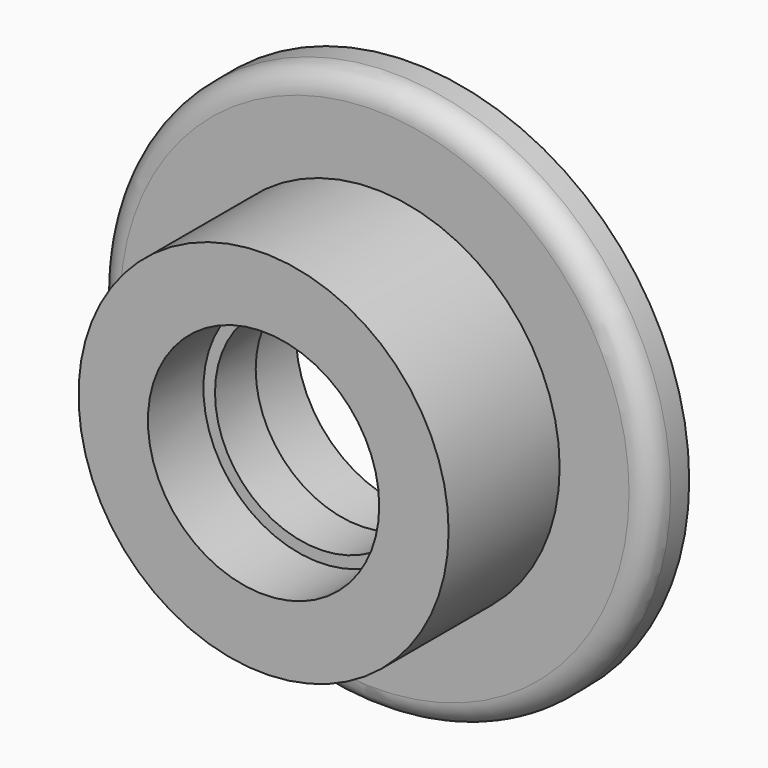
from build123d import *

# Parameters (mm, degrees)
F0_R     = 38.1
F1_DEPTH = 6.35
F2_R     = 25.4
F3_DEPTH = 19.05
F5_D     = 28.575
F6_R     = 15.875
F7_DEPTH = 9.525
F8_R     = 3.175
F4_R     = 15.875
F9_DEPTH = 8.89


with BuildPart() as f1:
    # F0 (on Front) → F1 (new body)
    with BuildSketch(Plane.XZ):
        Circle(F0_R)
    extrude(amount=F1_DEPTH)

    # F2 (on face) → F3 (join)
    with BuildSketch(Plane.XZ.offset(6.35)):
        Circle(F2_R)
    extrude(amount=F3_DEPTH)

    # F5 (through all)
    with Locations(Plane(origin=(0, 0, 0), x_dir=(1, 0, 0), z_dir=(0, 1, 0))):
        with Locations((0, 0)):
            Hole(F5_D / 2)

    # F6 (on face) → F7 (cut)
    with BuildSketch(Plane.XZ.offset(25.4)):
        Circle(F6_R)
    extrude(amount=-F7_DEPTH, mode=Mode.SUBTRACT)

    # F8
    f8_edges = [f1.edges().sort_by_distance(p)[0] for p in [
        (-38.1, -6.35, 0),
    ]]
    fillet(f8_edges, radius=F8_R)

    # F4 (on Front) → F9 (cut)
    with BuildSketch(Plane.XZ):
        Circle(F4_R)
    extrude(amount=F9_DEPTH, mode=Mode.SUBTRACT)


solid = f1.part
